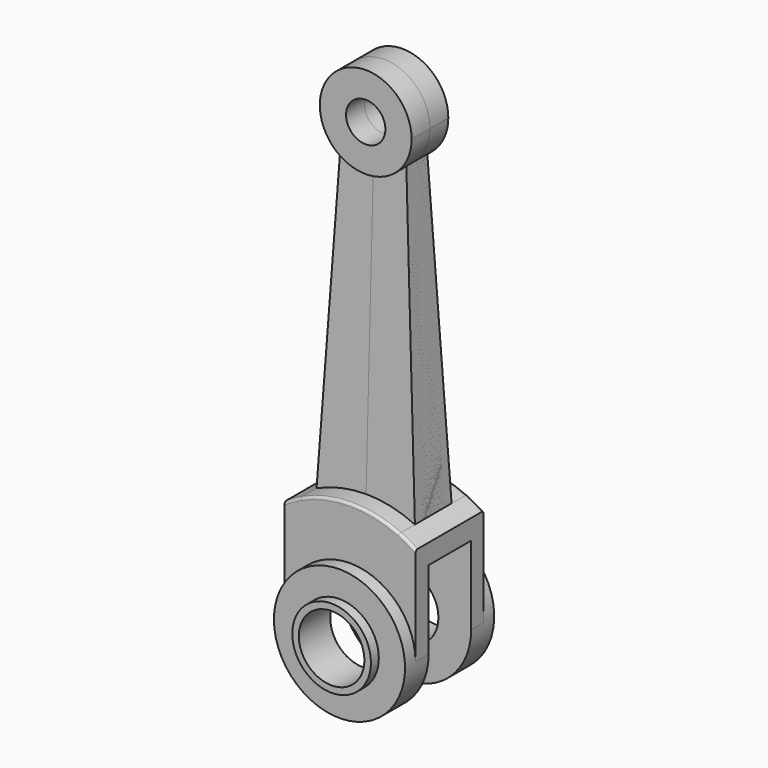
from build123d import *

# Parameters (mm, degrees)
F1_DEPTH  = 3.25
F0_R      = 3
F2_DEPTH  = 4.25
F0_R_2    = 2.5
F3_DEPTH  = 5
F6_W      = 4.0535052015
F6_H      = 12.9377121635
F7_DEPTH  = 10
F0_R_3    = 1.5
F8_DEPTH  = 1.75
F9_DEPTH  = 1
F12_DEPTH = 4
F15_DEPTH = 4
F16_R     = 0.2


with BuildPart() as f1:
    # F0 (on Front) → F1 (new body, symmetric)
    with BuildSketch(Plane.XZ):
        with BuildLine():
            ThreePointArc((3.75, 8.1967981554), (0, 9.0138781887), (-3.75, 8.1967981554))
            ThreePointArc((-3.75, 8.1967981554), (-4.3888502956, 7.8732453971), (-5, 7.5))
            Line((-5, 7.5), (-5, 0))
            ThreePointArc((-5, 0), (0, 5), (5, 0))
            Line((5, 0), (5, 7.5))
            ThreePointArc((5, 7.5), (4.3888502956, 7.8732453971), (3.75, 8.1967981554))
        make_face()
    extrude(amount=F1_DEPTH, both=True)

    # F0 (on Front) → F2 (join, symmetric)
    with BuildSketch(Plane.XZ):
        with BuildLine():
            ThreePointArc((5, 0), (0, 5), (-5, 0))
            ThreePointArc((-5, 0), (0, -5), (5, 0))
        make_face()
        Circle(F0_R, mode=Mode.SUBTRACT)
    extrude(amount=F2_DEPTH, both=True)

    # F0 (on Front) → F3 (join, symmetric)
    with BuildSketch(Plane.XZ):
        Circle(F0_R)
        Circle(F0_R_2, mode=Mode.SUBTRACT)
    extrude(amount=F3_DEPTH, both=True)

    # F6 (on offset) → F7 (cut)
    with BuildSketch(Plane.YZ.offset(5)):
        with Locations((0.0267526008, -0.4891203716)):
            Rectangle(F6_W, F6_H)
    extrude(amount=-F7_DEPTH, mode=Mode.SUBTRACT)

    # F16
    f16_edges = [f1.edges().sort_by_distance(p)[0] for p in [
        (0, -3.25, 9.013878),
        (0, 3.25, 9.013878),
    ]]
    fillet(f16_edges, radius=F16_R)


with BuildPart() as f8:
    # F0 (on Front) → F8 (new body, symmetric)
    with BuildSketch(Plane.XZ):
        with BuildLine():
            ThreePointArc((2.5, 31.5505102572), (3.2403703492, 32.6771243445), (3.5, 34))
            ThreePointArc((3.5, 34), (-1.3228756555, 37.2403703492), (-2.5, 31.5505102572))
            ThreePointArc((-2.5, 31.5505102572), (0, 30.5), (2.5, 31.5505102572))
        make_face()
        with Locations((0, 34)):
            Circle(F0_R_3, mode=Mode.SUBTRACT)
    extrude(amount=F8_DEPTH, both=True)


with BuildPart() as f9:
    # F0 (on Front) → F9 (new body, symmetric)
    with BuildSketch(Plane.XZ):
        with BuildLine():
            ThreePointArc((2.5, 31.5505102572), (0, 30.5), (-2.5, 31.5505102572))
            Line((-2.5, 31.5505102572), (-3.75, 8.1967981554))
            ThreePointArc((-3.75, 8.1967981554), (0, 9.0138781887), (3.75, 8.1967981554))
            Line((3.75, 8.1967981554), (2.5, 31.5505102572))
        make_face()
    extrude(amount=F9_DEPTH, both=True)


with BuildPart() as f12:
    # F11 (on offset) → F12 (new body)
    with BuildSketch(Plane(origin=(4.1767650311, 0, 0.2235600176), x_dir=(0, 1, 0), z_dir=(0.9985706248, 0, 0.0534481746))):
        Polygon((-1, 31.3717923027), (-1.75, 7.9846512005), (1.75, 7.9846512005), (1, 31.3717923027), align=None)
    extrude(amount=-F12_DEPTH)


with BuildPart() as f15:
    # F14 (on offset) → F15 (new body)
    with BuildSketch(Plane(origin=(-4.1767650311, 0, 0.2235600176), x_dir=(0, -1, 0), z_dir=(-0.9985706248, 0, 0.0534481746))):
        Polygon((-1, 31.3717923027), (-1.75, 7.9846512005), (1.75, 7.9846512005), (1, 31.3717923027), align=None)
    extrude(amount=-F15_DEPTH)


solid = Compound([f1.part, f8.part, f9.part, f12.part, f15.part])
